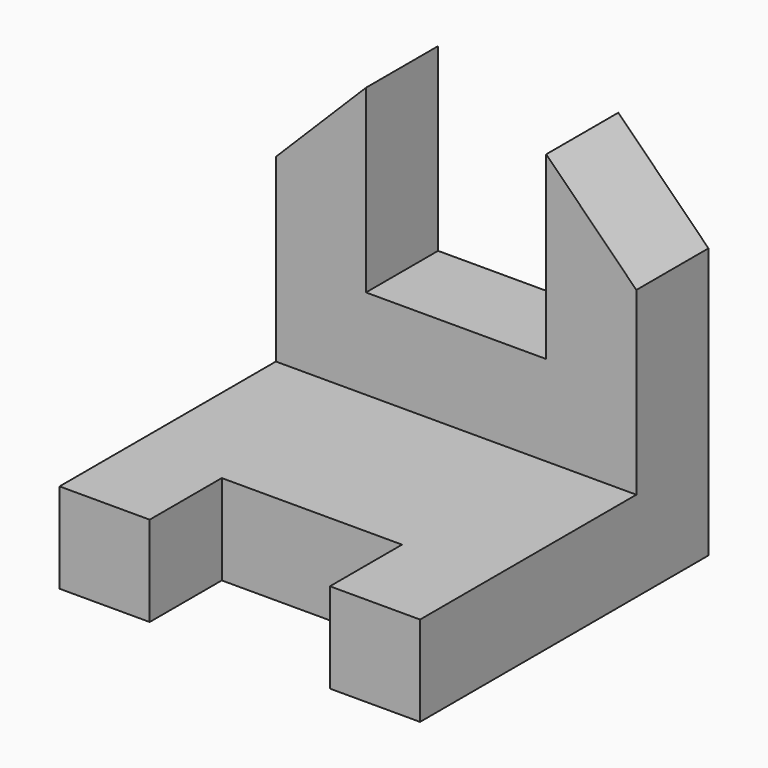
from build123d import *

# Parameters (mm, degrees)
F0_W      = 101.6
F0_H      = 101.6
F1_DEPTH  = 101.6
F2_W      = 101.6
F2_H      = 50.8
F3_DEPTH  = 76.2
F4_DEPTH  = 76.2
F5_W      = 50.8
F5_H      = 50.8
F6_DEPTH  = 25.4
F8_DEPTH  = 25.4
F10_DEPTH = 25.4
F11_W     = 50.8
F11_H     = 25.4
F12_DEPTH = 25.4


with BuildPart() as f1:
    # F0 (on Front) → F1 (new body)
    with BuildSketch(Plane.XZ):
        with Locations((-102.8639332771, -35.4373262644)):
            Rectangle(F0_W, F0_H)
    extrude(amount=F1_DEPTH)

    # F2 (on face) → F3 (cut)
    with BuildSketch(Plane.XZ.offset(101.6)):
        with Locations((-102.8639332771, -35.4373262644)):
            Rectangle(F2_W, F2_H)
    extrude(amount=-F3_DEPTH, mode=Mode.SUBTRACT)

    # F4 (cut): a face of the model
    f4_faces = [f1.faces().sort_by_distance(p)[0] for p in [
        (-102.8639332771, -101.6, 2.6626737356),
    ]]
    extrude(f4_faces, amount=-F4_DEPTH, mode=Mode.SUBTRACT)

    # F5 (on face) → F6 (cut)
    with BuildSketch(Plane.XZ.offset(25.4)):
        with Locations((-102.8639332771, -10.0373262644)):
            Rectangle(F5_W, F5_H)
    extrude(amount=-F6_DEPTH, mode=Mode.SUBTRACT)

    # F7 (on face) → F8 (cut)
    with BuildSketch(Plane.XZ.offset(25.4)):
        Polygon((-128.2639332771, 15.3626737356), (-153.6639332771, 15.3626737356), (-153.6639332771, -10.0373262644), align=None)
    extrude(amount=-F8_DEPTH, mode=Mode.SUBTRACT)

    # F9 (on face) → F10 (cut)
    with BuildSketch(Plane.XZ.offset(25.4)):
        Polygon((-52.0639332771, -10.0373262644), (-52.0639332771, 15.3626737356), (-77.4639332771, 15.3626737356), align=None)
    extrude(amount=-F10_DEPTH, mode=Mode.SUBTRACT)

    # F11 (on face) → F12 (cut)
    with BuildSketch(Plane.XY.offset(-60.8373262644)):
        with Locations((-102.8639332771, -88.9)):
            Rectangle(F11_W, F11_H)
    extrude(amount=-F12_DEPTH, mode=Mode.SUBTRACT)


solid = f1.part
